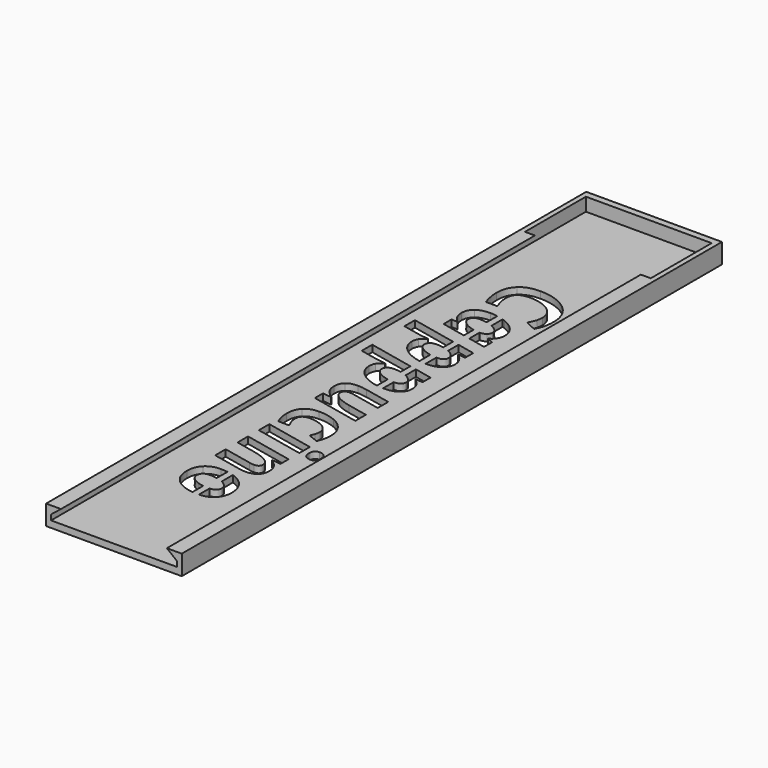
from build123d import *

# Parameters (mm, degrees)
F1_DEPTH = 202
F2_W     = 41
F2_H     = 6
F3_DEPTH = 2
F5_W     = 38
F5_H     = 23
F6_DEPTH = 4
F8_DEPTH = 11.2


with BuildPart() as f1:
    # F0 (on Front) → F1 (new body)
    with BuildSketch(Plane.XZ):
        Polygon((-20.5, 6), (-20.5, 0), (20.5, 0), (20.5, 6), (16, 6), (19, 3.6), (19, 2), (-19, 2), (-19, 3.6), (-16, 6), align=None)
    extrude(amount=F1_DEPTH)

    # F2 (on Front) → F3 (join)
    with BuildSketch(Plane.XZ):
        with Locations((0, 3)):
            Rectangle(F2_W, F2_H)
    extrude(amount=-F3_DEPTH)

    # F5 (on offset) → F6 (cut)
    with BuildSketch(Plane.XY.offset(6)):
        with Locations((0, -11.5)):
            Rectangle(F5_W, F5_H)
    extrude(amount=-F6_DEPTH, mode=Mode.SUBTRACT)

    # F7 (on offset) → F8 (cut)
    with BuildSketch(Plane.XY.offset(6)):
        with BuildLine():
            Line((5.2966534591, -108.9935642504), (5.3043815247, -105.023904276))
            Line((5.3043815247, -105.023904276), (-2.6654588897, -103.3318344912))
            add(Edge.make_bspline(
                [(-5.4731655685, -103.0096391064), (-4.248483236, -103.0120232968), (-2.6654588897, -103.3318344912)],
                knots=[0, 0, 0, 1, 1, 1], degree=2))
            add(Edge.make_bspline(
                [(-8.6254297598, -103.9663596779), (-7.5340103212, -103.0056270893), (-5.4731655685, -103.0096391064)],
                knots=[0, 0, 0, 1, 1, 1], degree=2))
            add(Edge.make_bspline(
                [(-9.7203925988, -106.7472235951), (-9.7168491985, -104.9270922664), (-8.6254297598, -103.9663596779)],
                knots=[0, 0, 0, 1, 1, 1], degree=2))
            add(Edge.make_bspline(
                [(-6.7311580999, -111.4406379548), (-9.7257940234, -109.5217625346), (-9.7203925988, -106.7472235951)],
                knots=[0, 0, 0, 1, 1, 1], degree=2))
            Line((-6.7311580999, -111.4406379548), (-6.7313143055, -111.5208757628))
            Line((-6.7313143055, -111.5208757628), (-9.4630802109, -111.236835745))
            Line((-9.4630802109, -111.236835745), (-9.468991359, -114.2732033211))
            Line((-9.468991359, -114.2732033211), (5.2802354303, -117.4269801747))
            Line((5.2802354303, -117.4269801747), (5.287963496, -113.4573202003))
            Line((5.287963496, -113.4573202003), (-0.8202550857, -112.1489498566))
            add(Edge.make_bspline(
                [(-5.0149297904, -110.5845866674), (-3.5134545569, -111.5778169391), (-0.8202550857, -112.1489498566)],
                knots=[0, 0, 0, 1, 1, 1], degree=2))
            add(Edge.make_bspline(
                [(-6.5140454975, -108.3793431908), (-6.5164050239, -109.5913563958), (-5.0149297904, -110.5845866674)],
                knots=[0, 0, 0, 1, 1, 1], degree=2))
            add(Edge.make_bspline(
                [(-4.8896183524, -106.9551118141), (-6.5112666824, -106.9519548171), (-6.5140454975, -108.3793431908)],
                knots=[0, 0, 0, 1, 1, 1], degree=2))
            add(Edge.make_bspline(
                [(-3.3190576001, -107.1693222812), (-4.2139315483, -106.9564272295), (-4.8896183524, -106.9551118141)],
                knots=[0, 0, 0, 1, 1, 1], degree=2))
            Line((-3.3190576001, -107.1693222812), (5.2966534591, -108.9935642504))
        make_face()
        with BuildLine():
            Line((-2, -91.215334709), (-2, -87.5213232196))
            Line((-2, -87.5213232196), (-15.9061689279, -84.5387855928))
            Line((-15.9061689279, -84.5387855928), (-15.9139052149, -88.5126686097))
            Line((-15.9139052149, -88.5126686097), (-11.4266608127, -89.4715924692))
            add(Edge.make_bspline(
                [(-7.5341254856, -90.0492832916), (-9.6326652098, -89.8847216665), (-11.4266608127, -89.4715924692)],
                knots=[0, 0, 0, 1, 1, 1], degree=2))
            Line((-7.5341254856, -90.0492832916), (-7.5343310192, -90.1548593548))
            add(Edge.make_bspline(
                [(-9.201058471, -91.6149043795), (-8.7096440355, -90.8240375821), (-7.5343310192, -90.1548593548)],
                knots=[0, 0, 0, 1, 1, 1], degree=2))
            add(Edge.make_bspline(
                [(-9.6946022352, -93.4995391912), (-9.6924729064, -92.405771177), (-9.201058471, -91.6149043795)],
                knots=[0, 0, 0, 1, 1, 1], degree=2))
            add(Edge.make_bspline(
                [(-8.3351812607, -96.9608706255), (-9.698277177, -95.3872392003), (-9.6946022352, -93.4995391912)],
                knots=[0, 0, 0, 1, 1, 1], degree=2))
            add(Edge.make_bspline(
                [(-4.6427252382, -99.4427713345), (-6.9720853444, -98.5345020507), (-8.3351812607, -96.9608706255)],
                knots=[0, 0, 0, 1, 1, 1], degree=2))
            add(Edge.make_bspline(
                [(-2, -100.1725825726), (-3.3502375177, -99.9467410269), (-4.6427252382, -99.4427713345)],
                knots=[0.4451318553, 0.4451318553, 0.4451318553, 1, 1, 1], degree=2))
            Line((-2, -100.1725825726), (-2, -96.1126709685))
            add(Edge.make_bspline(
                [(-3.0794965949, -95.8308764984), (-2.5372222417, -96.0005503735), (-2, -96.1126709685)],
                knots=[0, 0, 0, 0.3412647624, 0.3412647624, 0.3412647624], degree=2))
            add(Edge.make_bspline(
                [(-5.5770055956, -94.5253123634), (-4.6685102084, -95.333685186), (-3.0794965949, -95.8308764984)],
                knots=[0, 0, 0, 1, 1, 1], degree=2))
            add(Edge.make_bspline(
                [(-6.4837827214, -92.8343236528), (-6.4855009828, -93.7169395407), (-5.5770055956, -94.5253123634)],
                knots=[0, 0, 0, 1, 1, 1], degree=2))
            add(Edge.make_bspline(
                [(-5.8477078436, -91.4905178103), (-6.482113788, -91.9770460201), (-6.4837827214, -92.8343236528)],
                knots=[0, 0, 0, 1, 1, 1], degree=2))
            add(Edge.make_bspline(
                [(-4.1575412678, -91.0060449371), (-5.2133018992, -91.0039896005), (-5.8477078436, -91.4905178103)],
                knots=[0, 0, 0, 1, 1, 1], degree=2))
            add(Edge.make_bspline(
                [(-2, -91.215334709), (-3.0157625786, -91.0082677322), (-4.1575412678, -91.0060449371)],
                knots=[0.3638382574, 0.3638382574, 0.3638382574, 1, 1, 1], degree=2))
        make_face()
        with BuildLine():
            Line((5.3353924434, -89.0945878681), (0, -87.9502749521))
            Line((0, -87.9502749521), (0, -91.8748197783))
            add(Edge.make_bspline(
                [(1.4935076141, -92.8688574675), (0.8855257299, -92.2946582405), (0, -91.8748197783)],
                knots=[0, 0, 0, 0.683563473, 0.683563473, 0.683563473], degree=2))
            add(Edge.make_bspline(
                [(2.381186503, -94.6083741711), (2.3829376498, -93.708866113), (1.4935076141, -92.8688574675)],
                knots=[0, 0, 0, 1, 1, 1], degree=2))
            add(Edge.make_bspline(
                [(0.0551505831, -96.3310768237), (2.3778239723, -96.3355985642), (2.381186503, -94.6083741711)],
                knots=[0, 0, 0, 1, 1, 1], degree=2))
            add(Edge.make_bspline(
                [(0, -96.3308122682), (0.0275821919, -96.331023154), (0.0551505831, -96.3310768237)],
                knots=[0.9821636953, 0.9821636953, 0.9821636953, 1, 1, 1], degree=2))
            Line((0, -96.3308122682), (0, -100.3540618246))
            add(Edge.make_bspline(
                [(0.2035682134, -100.3559405407), (0.1016302667, -100.3557420897), (0, -100.3540618246)],
                knots=[0, 0, 0, 0.0405008527, 0.0405008527, 0.0405008527], degree=2))
            add(Edge.make_bspline(
                [(4.173287102, -99.2487812688), (2.7542858991, -100.3609062339), (0.2035682134, -100.3559405407)],
                knots=[0, 0, 0, 1, 1, 1], degree=2))
            add(Edge.make_bspline(
                [(5.5960372389, -96.2109489118), (5.5922883049, -98.1366563037), (4.173287102, -99.2487812688)],
                knots=[0, 0, 0, 1, 1, 1], degree=2))
            add(Edge.make_bspline(
                [(3.0872512477, -92.0210138462), (5.6006411928, -93.8460450973), (5.5960372389, -96.2109489118)],
                knots=[0, 0, 0, 1, 1, 1], degree=2))
            Line((3.0872512477, -92.0210138462), (3.0874814454, -91.9027686554))
            Line((3.0874814454, -91.9027686554), (5.3294812953, -92.1309554443))
            Line((5.3294812953, -92.1309554443), (5.3353924434, -89.0945878681))
        make_face()
        with BuildLine():
            Line((-2, -75.1234366987), (-2, -71.4290379033))
            Line((-2, -71.4290379033), (-15.8748538195, -68.4532166114))
            Line((-15.8748538195, -68.4532166114), (-15.8825901064, -72.4270996284))
            Line((-15.8825901064, -72.4270996284), (-11.3953457043, -73.3860234879))
            add(Edge.make_bspline(
                [(-7.5028103771, -73.9637143103), (-9.6013501014, -73.7991526852), (-11.3953457043, -73.3860234879)],
                knots=[0, 0, 0, 1, 1, 1], degree=2))
            Line((-7.5028103771, -73.9637143103), (-7.5030159108, -74.0692903734))
            add(Edge.make_bspline(
                [(-9.1697433625, -75.5293353982), (-8.6783289271, -74.7384686008), (-7.5030159108, -74.0692903734)],
                knots=[0, 0, 0, 1, 1, 1], degree=2))
            add(Edge.make_bspline(
                [(-9.6632871267, -77.4139702099), (-9.661157798, -76.3202021956), (-9.1697433625, -75.5293353982)],
                knots=[0, 0, 0, 1, 1, 1], degree=2))
            add(Edge.make_bspline(
                [(-8.3038661523, -80.8753016442), (-9.6669620686, -79.301670219), (-9.6632871267, -77.4139702099)],
                knots=[0, 0, 0, 1, 1, 1], degree=2))
            add(Edge.make_bspline(
                [(-4.6114101298, -83.3572023531), (-6.940770236, -82.4489330694), (-8.3038661523, -80.8753016442)],
                knots=[0, 0, 0, 1, 1, 1], degree=2))
            add(Edge.make_bspline(
                [(-2, -84.0817370891), (-3.3339140069, -83.8553264884), (-4.6114101298, -83.3572023531)],
                knots=[0.4515677849, 0.4515677849, 0.4515677849, 1, 1, 1], degree=2))
            Line((-2, -84.0817370891), (-2, -80.0205184092))
            add(Edge.make_bspline(
                [(-3.0481814865, -79.7453075171), (-2.5217097679, -79.9100368577), (-2, -80.0205184092)],
                knots=[0, 0, 0, 0.3313198289, 0.3313198289, 0.3313198289], degree=2))
            add(Edge.make_bspline(
                [(-5.5456904871, -78.439743382), (-4.6371951, -79.2481162046), (-3.0481814865, -79.7453075171)],
                knots=[0, 0, 0, 1, 1, 1], degree=2))
            add(Edge.make_bspline(
                [(-6.4524676129, -76.7487546715), (-6.4541858743, -77.6313705594), (-5.5456904871, -78.439743382)],
                knots=[0, 0, 0, 1, 1, 1], degree=2))
            add(Edge.make_bspline(
                [(-5.8163927352, -75.4049488289), (-6.4507986796, -75.8914770387), (-6.4524676129, -76.7487546715)],
                knots=[0, 0, 0, 1, 1, 1], degree=2))
            add(Edge.make_bspline(
                [(-4.1262261593, -74.9204759558), (-5.1819867908, -74.9184206192), (-5.8163927352, -75.4049488289)],
                knots=[0, 0, 0, 1, 1, 1], degree=2))
            add(Edge.make_bspline(
                [(-2, -75.1234366987), (-3.0020307133, -74.9226645201), (-4.1262261593, -74.9204759558)],
                knots=[0.3736350655, 0.3736350655, 0.3736350655, 1, 1, 1], degree=2))
        make_face()
        with BuildLine():
            Line((5.3667075518, -73.0090188868), (0, -71.8579896358))
            Line((0, -71.8579896358), (0, -75.7744928321))
            add(Edge.make_bspline(
                [(1.5248227225, -76.7832884862), (0.9061203404, -76.1989644482), (0, -75.7744928321)],
                knots=[0, 0, 0, 0.6956166953, 0.6956166953, 0.6956166953], degree=2))
            add(Edge.make_bspline(
                [(2.4125016115, -78.5228051897), (2.4142527583, -77.6232971317), (1.5248227225, -76.7832884862)],
                knots=[0, 0, 0, 1, 1, 1], degree=2))
            add(Edge.make_bspline(
                [(0.0864656915, -80.2455078423), (2.4091390808, -80.2500295828), (2.4125016115, -78.5228051897)],
                knots=[0, 0, 0, 1, 1, 1], degree=2))
            add(Edge.make_bspline(
                [(0, -80.2449532461), (0.0432498022, -80.2454237104), (0.0864656915, -80.2455078423)],
                knots=[0.9720400162, 0.9720400162, 0.9720400162, 1, 1, 1], degree=2))
            Line((0, -80.2449532461), (0, -84.2679397979))
            add(Edge.make_bspline(
                [(0.2348833219, -84.2703715594), (0.1172367543, -84.2701425271), (0, -84.2679397979)],
                knots=[0, 0, 0, 0.0467420275, 0.0467420275, 0.0467420275], degree=2))
            add(Edge.make_bspline(
                [(4.2046022104, -83.1632122875), (2.7856010075, -84.2753372526), (0.2348833219, -84.2703715594)],
                knots=[0, 0, 0, 1, 1, 1], degree=2))
            add(Edge.make_bspline(
                [(5.6273523473, -80.1253799305), (5.6236034133, -82.0510873223), (4.2046022104, -83.1632122875)],
                knots=[0, 0, 0, 1, 1, 1], degree=2))
            add(Edge.make_bspline(
                [(3.1185663561, -75.9354448648), (5.6319563013, -77.760476116), (5.6273523473, -80.1253799305)],
                knots=[0, 0, 0, 1, 1, 1], degree=2))
            Line((3.1185663561, -75.9354448648), (3.1187965538, -75.8171996741))
            Line((3.1187965538, -75.8171996741), (5.3607964037, -76.0453864629))
            Line((5.3607964037, -76.0453864629), (5.3667075518, -73.0090188868))
        make_face()
        with BuildLine():
            Line((-2, -58.7547135911), (-2, -54.6933849451))
            add(Edge.make_bspline(
                [(-4.2722898206, -54.5017036036), (-3.1118272922, -54.503962772), (-2, -54.6933849451)],
                knots=[0, 0, 0, 0.4439305345, 0.4439305345, 0.4439305345], degree=2))
            add(Edge.make_bspline(
                [(-8.2145589327, -55.6089163142), (-6.8061153362, -54.4967707957), (-4.2722898206, -54.5017036036)],
                knots=[0, 0, 0, 1, 1, 1], degree=2))
            add(Edge.make_bspline(
                [(-9.6267843487, -58.6636613947), (-9.6230025293, -56.7210618327), (-8.2145589327, -55.6089163142)],
                knots=[0, 0, 0, 1, 1, 1], degree=2))
            add(Edge.make_bspline(
                [(-7.4558910877, -62.8782770078), (-9.6315362869, -61.1045799747), (-9.6267843487, -58.6636613947)],
                knots=[0, 0, 0, 1, 1, 1], degree=2))
            Line((-7.4558910877, -62.8782770078), (-7.4559897438, -62.9289535181))
            Line((-7.4559897438, -62.9289535181), (-9.3686662688, -62.739415377))
            Line((-9.3686662688, -62.739415377), (-9.3745527529, -65.7631138256))
            Line((-9.3745527529, -65.7631138256), (-2, -67.3484388358))
            Line((-2, -67.3484388358), (-2, -63.6550811154))
            add(Edge.make_bspline(
                [(-3.1471723167, -63.3469785271), (-2.6001595363, -63.5348411428), (-2, -63.6550811154)],
                knots=[0, 0, 0, 0.3625639291, 0.3625639291, 0.3625639291], degree=2))
            add(Edge.make_bspline(
                [(-5.5389901554, -61.9824973303), (-4.6559070155, -62.8288282076), (-3.1471723167, -63.3469785271)],
                knots=[0, 0, 0, 1, 1, 1], degree=2))
            add(Edge.make_bspline(
                [(-6.4203057058, -60.22821231), (-6.4220732953, -61.1361664531), (-5.5389901554, -61.9824973303)],
                knots=[0, 0, 0, 1, 1, 1], degree=2))
            add(Edge.make_bspline(
                [(-5.8371791759, -58.9666530299), (-6.4187107646, -59.40894206), (-6.4203057058, -60.22821231)],
                knots=[0, 0, 0, 1, 1, 1], degree=2))
            add(Edge.make_bspline(
                [(-4.0943108926, -58.52662487), (-5.2556475872, -58.5243639998), (-5.8371791759, -58.9666530299)],
                knots=[0, 0, 0, 1, 1, 1], degree=2))
            add(Edge.make_bspline(
                [(-2, -58.7547135911), (-3.053784885, -58.5286505481), (-4.0943108926, -58.52662487)],
                knots=[0.3193577335, 0.3193577335, 0.3193577335, 1, 1, 1], degree=2))
        make_face()
        with BuildLine():
            add(Edge.make_bspline(
                [(0, -55.1987795081), (0.3572503939, -55.3196973715), (0.7090505571, -55.4615893607)],
                knots=[0.8513903717, 0.8513903717, 0.8513903717, 1, 1, 1], degree=2))
            Line((0, -55.1987795081), (0, -59.393431106))
            add(Edge.make_bspline(
                [(1.4977592675, -60.3154190574), (0.8785658053, -59.7849539637), (0, -59.393431106)],
                knots=[0, 0, 0, 0.6527403543, 0.6527403543, 0.6527403543], degree=2))
            add(Edge.make_bspline(
                [(2.4446224119, -62.0233780409), (2.4463653373, -61.1280930254), (1.4977592675, -60.3154190574)],
                knots=[0, 0, 0, 1, 1, 1], degree=2))
            add(Edge.make_bspline(
                [(1.8275594469, -63.362997837), (2.4430028066, -62.8553174185), (2.4446224119, -62.0233780409)],
                knots=[0, 0, 0, 1, 1, 1], degree=2))
            add(Edge.make_bspline(
                [(0.2746006463, -63.8688531165), (1.2121160871, -63.8706782554), (1.8275594469, -63.362997837)],
                knots=[0, 0, 0, 1, 1, 1], degree=2))
            add(Edge.make_bspline(
                [(0, -63.8656236055), (0.1362429287, -63.8685837641), (0.2746006463, -63.8688531165)],
                knots=[0.9276764505, 0.9276764505, 0.9276764505, 1, 1, 1], degree=2))
            Line((0, -63.8656236055), (0, -67.7783835561))
            Line((0, -67.7783835561), (5.3746411511, -68.9337828492))
            Line((5.3746411511, -68.9337828492), (5.3806016272, -65.8720770179))
            Line((5.3806016272, -65.8720770179), (3.4943650178, -65.1167005065))
            Line((3.4943650178, -65.1167005065), (3.4945705514, -65.0111244433))
            add(Edge.make_bspline(
                [(5.106365565, -63.5678647112), (4.5513341872, -64.4979685917), (3.4945705514, -65.0111244433)],
                knots=[0, 0, 0, 1, 1, 1], degree=2))
            add(Edge.make_bspline(
                [(5.6638880107, -61.3581789452), (5.6613969428, -62.6377608306), (5.106365565, -63.5678647112)],
                knots=[0, 0, 0, 1, 1, 1], degree=2))
            add(Edge.make_bspline(
                [(4.3719041751, -57.9645477328), (5.6674807391, -59.5127093614), (5.6638880107, -61.3581789452)],
                knots=[0, 0, 0, 1, 1, 1], degree=2))
            add(Edge.make_bspline(
                [(0.7090505571, -55.4615893607), (3.0763276112, -56.4163861043), (4.3719041751, -57.9645477328)],
                knots=[0, 0, 0, 1, 1, 1], degree=2))
        make_face()
        with BuildLine():
            add(Edge.make_bspline(
                [(6.8497900884, -48.7419887479), (6.8531772831, -47.0020952272), (5.7874605684, -45.606411193)],
                knots=[0, 0, 0, 1, 1, 1], degree=2))
            add(Edge.make_bspline(
                [(6.5971077324, -50.5510774109), (6.8480389416, -49.641496806), (6.8497900884, -48.7419887479)],
                knots=[0, 0, 0, 1, 1, 1], degree=2))
            add(Edge.make_bspline(
                [(5.5621923903, -52.8569641428), (6.3461765233, -51.4606580158), (6.5971077324, -50.5510774109)],
                knots=[0, 0, 0, 1, 1, 1], degree=2))
            Line((5.5621923903, -52.8569641428), (8.8615779688, -54.4216959277))
            add(Edge.make_bspline(
                [(9.9543552944, -51.6788352826), (9.6541397283, -52.957837563), (8.8615779688, -54.4216959277)],
                knots=[0, 0, 0, 1, 1, 1], degree=2))
            add(Edge.make_bspline(
                [(10.2577854068, -48.7486233745), (10.2545708604, -50.3998330021), (9.9543552944, -51.6788352826)],
                knots=[0, 0, 0, 1, 1, 1], degree=2))
            add(Edge.make_bspline(
                [(8.7562128655, -43.466876975), (10.2635896774, -45.7671553512), (10.2577854068, -48.7486233745)],
                knots=[0, 0, 0, 1, 1, 1], degree=2))
            add(Edge.make_bspline(
                [(4.3418316909, -39.7884452703), (7.2488360537, -41.1665985989), (8.7562128655, -43.466876975)],
                knots=[0, 0, 0, 1, 1, 1], degree=2))
            add(Edge.make_bspline(
                [(-2.0238445006, -38.403558659), (1.4348273281, -38.4102919417), (4.3418316909, -39.7884452703)],
                knots=[0, 0, 0, 1, 1, 1], degree=2))
            add(Edge.make_bspline(
                [(-7.6166668975, -40.255039461), (-5.6387689028, -38.3965211865), (-2.0238445006, -38.403558659)],
                knots=[0, 0, 0, 1, 1, 1], degree=2))
            add(Edge.make_bspline(
                [(-9.6010844198, -45.4624304586), (-9.5945648921, -42.1135577355), (-7.6166668975, -40.255039461)],
                knots=[0, 0, 0, 1, 1, 1], degree=2))
            add(Edge.make_bspline(
                [(-8.5936078541, -50.7432149605), (-9.6062556467, -48.1187242074), (-9.6010844198, -45.4624304586)],
                knots=[0, 0, 0, 1, 1, 1], degree=2))
            Line((-8.5936078541, -50.7432149605), (-5.1602742805, -50.7498989151))
            add(Edge.make_bspline(
                [(-6.1693457874, -46.2883846632), (-6.1730947214, -48.214092055), (-5.1602742805, -50.7498989151)],
                knots=[0, 0, 0, 1, 1, 1], degree=2))
            add(Edge.make_bspline(
                [(-5.0953008488, -43.4061266186), (-6.165489976, -44.3077777185), (-6.1693457874, -46.2883846632)],
                knots=[0, 0, 0, 1, 1, 1], degree=2))
            add(Edge.make_bspline(
                [(-1.820683523, -42.5087670615), (-4.0251117216, -42.5044755187), (-5.0953008488, -43.4061266186)],
                knots=[0, 0, 0, 1, 1, 1], degree=2))
            add(Edge.make_bspline(
                [(2.6456512001, -43.3620737512), (0.5695585466, -42.5134203436), (-1.820683523, -42.5087670615)],
                knots=[0, 0, 0, 1, 1, 1], degree=2))
            add(Edge.make_bspline(
                [(5.7874605684, -45.606411193), (4.7217438536, -44.2107271588), (2.6456512001, -43.3620737512)],
                knots=[0, 0, 0, 1, 1, 1], degree=2))
        make_face()
        with BuildLine():
            add(Edge.make_bspline(
                [(-9.7550291312, -124.5389017569), (-9.7498661257, -121.8868310506), (-8.3281614646, -120.4706511343)],
                knots=[0, 0, 0, 1, 1, 1], degree=2))
            add(Edge.make_bspline(
                [(-8.720570041, -128.9751270817), (-9.7597564054, -126.9671512093), (-9.7550291312, -124.5389017569)],
                knots=[0, 0, 0, 1, 1, 1], degree=2))
            Line((-8.720570041, -128.9751270817), (-5.4730503386, -128.9814492971))
            add(Edge.make_bspline(
                [(-6.2403149661, -127.2126056043), (-5.9315943844, -128.0725990272), (-5.4730503386, -128.9814492971)],
                knots=[0, 0, 0, 1, 1, 1], degree=2))
            add(Edge.make_bspline(
                [(-6.5470870887, -125.3517511026), (-6.5490355478, -126.3526121813), (-6.2403149661, -127.2126056043)],
                knots=[0, 0, 0, 1, 1, 1], degree=2))
            add(Edge.make_bspline(
                [(-5.9040446035, -123.6827833176), (-6.545007088, -124.2833213435), (-6.5470870887, -125.3517511026)],
                knots=[0, 0, 0, 1, 1, 1], degree=2))
            add(Edge.make_bspline(
                [(-3.9961693611, -123.0847116955), (-5.2630821189, -123.0822452916), (-5.9040446035, -123.6827833176)],
                knots=[0, 0, 0, 1, 1, 1], degree=2))
            add(Edge.make_bspline(
                [(-0.8362127027, -123.5997419977), (-2.3069523508, -123.0880002341), (-3.9961693611, -123.0847116955)],
                knots=[0, 0, 0, 1, 1, 1], degree=2))
            add(Edge.make_bspline(
                [(1.4773760824, -125.0168591311), (0.6345269453, -124.1114837613), (-0.8362127027, -123.5997419977)],
                knots=[0, 0, 0, 1, 1, 1], degree=2))
            add(Edge.make_bspline(
                [(2.3180383413, -127.0455638129), (2.3202252194, -125.922234501), (1.4773760824, -125.0168591311)],
                knots=[0, 0, 0, 1, 1, 1], degree=2))
            add(Edge.make_bspline(
                [(2.0911875213, -128.6013192523), (2.3163447439, -127.9155105732), (2.3180383413, -127.0455638129)],
                knots=[0, 0, 0, 1, 1, 1], degree=2))
            add(Edge.make_bspline(
                [(1.5605818292, -130.0002301814), (1.8660302986, -129.2871279314), (2.0911875213, -128.6013192523)],
                knots=[0, 0, 0, 1, 1, 1], degree=2))
            Line((1.5605818292, -130.0002301814), (4.5776977088, -131.218121649))
            add(Edge.make_bspline(
                [(5.5363091572, -126.8913528628), (5.5316312111, -129.2942640601), (4.5776977088, -131.218121649)],
                knots=[0, 0, 0, 1, 1, 1], degree=2))
            add(Edge.make_bspline(
                [(4.2984205473, -122.8263606557), (5.5407486843, -124.6109098988), (5.5363091572, -126.8913528628)],
                knots=[0, 0, 0, 1, 1, 1], degree=2))
            add(Edge.make_bspline(
                [(0.7670074137, -120.0533824236), (3.0560924104, -121.0418114125), (4.2984205473, -122.8263606557)],
                knots=[0, 0, 0, 1, 1, 1], degree=2))
            add(Edge.make_bspline(
                [(-4.3177317351, -119.0595109033), (-1.5220775829, -119.0649534346), (0.7670074137, -120.0533824236)],
                knots=[0, 0, 0, 1, 1, 1], degree=2))
            add(Edge.make_bspline(
                [(-8.3281614646, -120.4706511343), (-6.9064568035, -119.0544712179), (-4.3177317351, -119.0595109033)],
                knots=[0, 0, 0, 1, 1, 1], degree=2))
        make_face()
        Polygon((-9.5023453613, -131.4060868489), (-9.5100734269, -135.3757468233), (5.239145141, -138.5337467193), (5.246881428, -134.5598637024), align=None)
        with BuildLine():
            add(Edge.make_bspline(
                [(8.7043200548, -135.200053364), (9.8487645793, -135.2022813489), (10.4366581417, -135.8305500418)],
                knots=[0, 0, 0, 1, 1, 1], degree=2))
            add(Edge.make_bspline(
                [(7.0745682068, -137.1901642179), (7.0784486823, -135.1968881457), (8.7043200548, -135.200053364)],
                knots=[0, 0, 0, 1, 1, 1], degree=2))
            add(Edge.make_bspline(
                [(7.7256416154, -138.9883431214), (7.072200459, -138.4064004654), (7.0745682068, -137.1901642179)],
                knots=[0, 0, 0, 1, 1, 1], degree=2))
            add(Edge.make_bspline(
                [(9.4348434033, -139.572341114), (8.3790827718, -139.5702857774), (7.7256416154, -138.9883431214)],
                knots=[0, 0, 0, 1, 1, 1], degree=2))
            add(Edge.make_bspline(
                [(10.6098275657, -139.0720845877), (10.1992141005, -139.5738291777), (9.4348434033, -139.572341114)],
                knots=[0, 0, 0, 1, 1, 1], degree=2))
            add(Edge.make_bspline(
                [(11.0223154979, -137.6074863018), (11.020441031, -138.5703399977), (10.6098275657, -139.0720845877)],
                knots=[0, 0, 0, 1, 1, 1], degree=2))
            add(Edge.make_bspline(
                [(10.4366581417, -135.8305500418), (11.0245517042, -136.4588187348), (11.0223154979, -137.6074863018)],
                knots=[0, 0, 0, 1, 1, 1], degree=2))
        make_face()
        with BuildLine():
            Line((-9.5343839483, -147.8632835725), (-9.5421120139, -151.8329435469))
            Line((-9.5421120139, -151.8329435469), (-1.1374544248, -153.6060979384))
            add(Edge.make_bspline(
                [(1.2353035378, -153.9147773969), (0.2724498419, -153.9129029299), (-1.1374544248, -153.6060979384)],
                knots=[0, 0, 0, 1, 1, 1], degree=2))
            add(Edge.make_bspline(
                [(4.3855219787, -152.9242683745), (3.2834791629, -153.9187647499), (1.2353035378, -153.9147773969)],
                knots=[0, 0, 0, 1, 1, 1], degree=2))
            add(Edge.make_bspline(
                [(5.4911081947, -150.1096406705), (5.4875647944, -151.9297719992), (4.3855219787, -152.9242683745)],
                knots=[0, 0, 0, 1, 1, 1], degree=2))
            add(Edge.make_bspline(
                [(2.4934276108, -145.416209868), (5.4964849553, -147.3477708585), (5.4911081947, -150.1096406705)],
                knots=[0, 0, 0, 1, 1, 1], degree=2))
            Line((2.4934276108, -145.416209868), (2.4935838163, -145.33597206))
            Line((2.4935838163, -145.33597206), (5.2253497218, -145.6200120779))
            Line((5.2253497218, -145.6200120779), (5.2312608698, -142.5836445017))
            Line((5.2312608698, -142.5836445017), (-9.5179659195, -139.4298676482))
            Line((-9.5179659195, -139.4298676482), (-9.5256939851, -143.3995276226))
            Line((-9.5256939851, -143.3995276226), (-3.4174754034, -144.7078979663))
            add(Edge.make_bspline(
                [(0.77508778, -146.2722570448), (-0.7284989748, -145.2790226624), (-3.4174754034, -144.7078979663)],
                knots=[0, 0, 0, 1, 1, 1], degree=2))
            add(Edge.make_bspline(
                [(2.2763150083, -148.477504632), (2.2786745347, -147.2654914271), (0.77508778, -146.2722570448)],
                knots=[0, 0, 0, 1, 1, 1], degree=2))
            add(Edge.make_bspline(
                [(0.6518878633, -149.9017360088), (2.2735361932, -149.9048930058), (2.2763150083, -148.477504632)],
                knots=[0, 0, 0, 1, 1, 1], degree=2))
            add(Edge.make_bspline(
                [(-0.9186728891, -149.6875255416), (-0.0237989409, -149.9004205934), (0.6518878633, -149.9017360088)],
                knots=[0, 0, 0, 1, 1, 1], degree=2))
            Line((-0.9186728891, -149.6875255416), (-9.5343839483, -147.8632835725))
        make_face()
        with BuildLine():
            add(Edge.make_bspline(
                [(-2, -169.8221510755), (-3.8180280909, -169.6234197896), (-5.3249613818, -168.967767296)],
                knots=[0.2990445098, 0.2990445098, 0.2990445098, 1, 1, 1], degree=2))
            Line((-2, -169.8221510755), (-2, -165.798359989))
            add(Edge.make_bspline(
                [(-3.5296668226, -165.4597891759), (-2.7980364498, -165.6859720501), (-2, -165.798359989)],
                knots=[0, 0, 0, 0.5068737721, 0.5068737721, 0.5068737721], degree=2))
            add(Edge.make_bspline(
                [(-5.7844783089, -164.2201549274), (-4.9730841251, -165.0135580102), (-3.5296668226, -165.4597891759)],
                knots=[0, 0, 0, 1, 1, 1], degree=2))
            add(Edge.make_bspline(
                [(-6.5939486976, -162.4385598935), (-6.5958724927, -163.4267518446), (-5.7844783089, -164.2201549274)],
                knots=[0, 0, 0, 1, 1, 1], degree=2))
            add(Edge.make_bspline(
                [(-4.1491743061, -160.4627048871), (-6.5900928861, -160.4579529489), (-6.5939486976, -162.4385598935)],
                knots=[0, 0, 0, 1, 1, 1], degree=2))
            add(Edge.make_bspline(
                [(-2, -160.6853931835), (-3.0534539165, -160.4648380167), (-4.1491743061, -160.4627048871)],
                knots=[0.3364135169, 0.3364135169, 0.3364135169, 1, 1, 1], degree=2))
            Line((-2, -160.6853931835), (-2, -156.6171954894))
            add(Edge.make_bspline(
                [(-4.1413886911, -156.463483615), (-3.0218722002, -156.4656630704), (-2, -156.6171954894)],
                knots=[0, 0, 0, 0.398043752, 0.398043752, 0.398043752], degree=2))
            add(Edge.make_bspline(
                [(-8.2681822878, -157.9926429497), (-6.7132215894, -156.4584768151), (-4.1413886911, -156.463483615)],
                knots=[0, 0, 0, 1, 1, 1], degree=2))
            add(Edge.make_bspline(
                [(-9.8281580075, -162.1028650252), (-9.8231429862, -159.5268090844), (-8.2681822878, -157.9926429497)],
                knots=[0, 0, 0, 1, 1, 1], degree=2))
            add(Edge.make_bspline(
                [(-8.6538246798, -166.2754214965), (-9.8328606176, -164.51844535), (-9.8281580075, -162.1028650252)],
                knots=[0, 0, 0, 1, 1, 1], degree=2))
            add(Edge.make_bspline(
                [(-5.3249613818, -168.967767296), (-7.4747887419, -168.0323976431), (-8.6538246798, -166.2754214965)],
                knots=[0, 0, 0, 1, 1, 1], degree=2))
        make_face()
        with BuildLine():
            Line((0, -165.898940953), (0, -169.9013167449))
            add(Edge.make_bspline(
                [(3.8992815979, -168.411388933), (2.4538234074, -169.8043391147), (0, -169.9013167449)],
                knots=[0, 0, 0, 0.9270975046, 0.9270975046, 0.9270975046], degree=2))
            add(Edge.make_bspline(
                [(5.4634351427, -164.3244018128), (5.4584036787, -166.9089038387), (3.8992815979, -168.411388933)],
                knots=[0, 0, 0, 1, 1, 1], degree=2))
            add(Edge.make_bspline(
                [(4.2658791918, -160.1496886028), (5.4680884248, -161.9341597431), (5.4634351427, -164.3244018128)],
                knots=[0, 0, 0, 1, 1, 1], degree=2))
            add(Edge.make_bspline(
                [(0.867413795, -157.4170882471), (3.0636699588, -158.3652174624), (4.2658791918, -160.1496886028)],
                knots=[0, 0, 0, 1, 1, 1], degree=2))
            add(Edge.make_bspline(
                [(0, -157.0873150701), (0.4451004426, -157.2347745288), (0.867413795, -157.4170882471)],
                knots=[0.8077121607, 0.8077121607, 0.8077121607, 1, 1, 1], degree=2))
            Line((0, -157.0873150701), (0, -161.3248510362))
            add(Edge.make_bspline(
                [(1.4175617094, -162.2493382252), (0.8775397346, -161.7228198151), (0, -161.3248510362)],
                knots=[0, 0, 0, 0.6707713716, 0.6707713716, 0.6707713716], degree=2))
            add(Edge.make_bspline(
                [(2.2207057557, -164.0266978845), (2.2226377721, -163.0342828909), (1.4175617094, -162.2493382252)],
                knots=[0, 0, 0, 1, 1, 1], degree=2))
            add(Edge.make_bspline(
                [(0, -165.898940953), (2.2173131345, -165.769378833), (2.2207057557, -164.0266978845)],
                knots=[0.0768231498, 0.0768231498, 0.0768231498, 1, 1, 1], degree=2))
        make_face()
    extrude(amount=-F8_DEPTH, mode=Mode.SUBTRACT)


solid = f1.part
